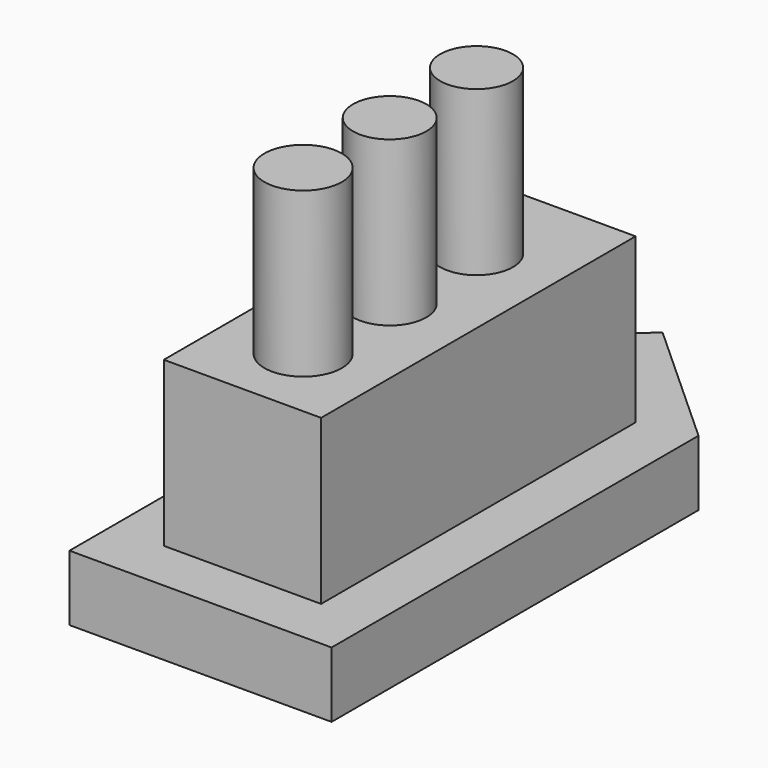
from build123d import *

# Parameters (mm, degrees)
F1_DEPTH = 10
F2_W     = 24
F2_H     = 60
F3_DEPTH = 25
F4_R     = 5.556235
F4_R_2   = 5.60079
F4_R_3   = 5.912316
F5_DEPTH = 25


with BuildPart() as f1:
    # F0 (on Top) → F1 (new body)
    with BuildSketch(Plane.XY):
        Polygon((0, 52.050263), (-20, 33.911906), (-20, -36.088094), (20, -36.088094), (20, 33.911906), align=None)
    extrude(amount=F1_DEPTH)

    # F2 (on face) → F3 (join)
    with BuildSketch(Plane.XY.offset(10)):
        with Locations((0, 1.911906)):
            Rectangle(F2_W, F2_H)
    extrude(amount=F3_DEPTH)

    # F4 (on face) → F5 (join)
    with BuildSketch(Plane.XY.offset(35)):
        with Locations((0, 16.571494)):
            Circle(F4_R)
        Circle(F4_R_2)
        with Locations((0, -16.513106)):
            Circle(F4_R_3)
    extrude(amount=F5_DEPTH)


solid = f1.part
